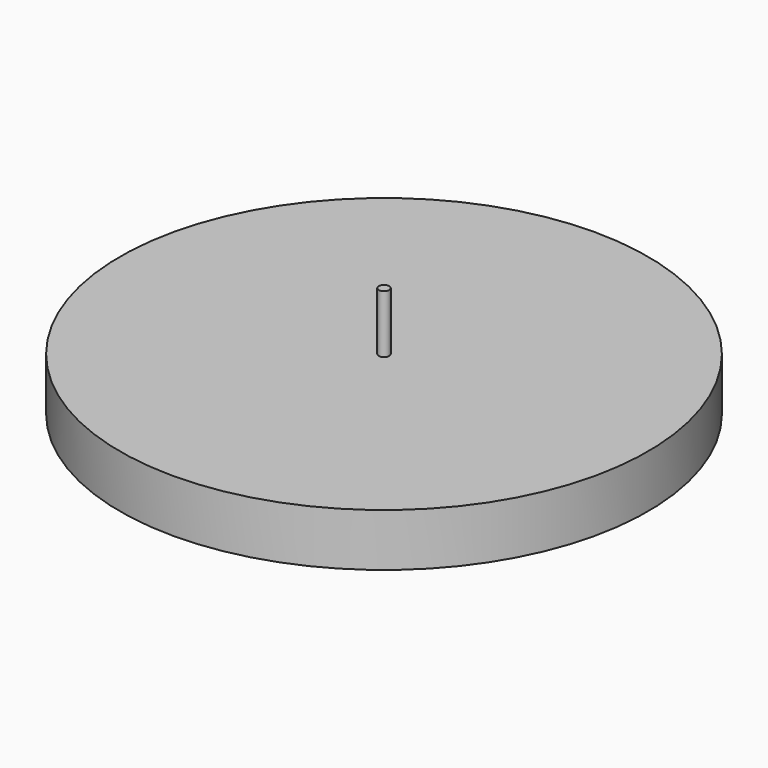
from build123d import *


with BuildPart() as part:
    # Sketch → Revolution (revolve)
    with BuildSketch(Plane.YZ):
        Polygon((250, 0), (250, 25), (5, 25), (5, 80), (0, 80), (0, 0), align=None)
    revolution = revolve(axis=Axis((0, 0, 0), (0, 0, 1)))

    # Mirrored: Revolution across Sketch H_Axis
    add(revolution.mirror(Plane.XY))


solid = part.part
